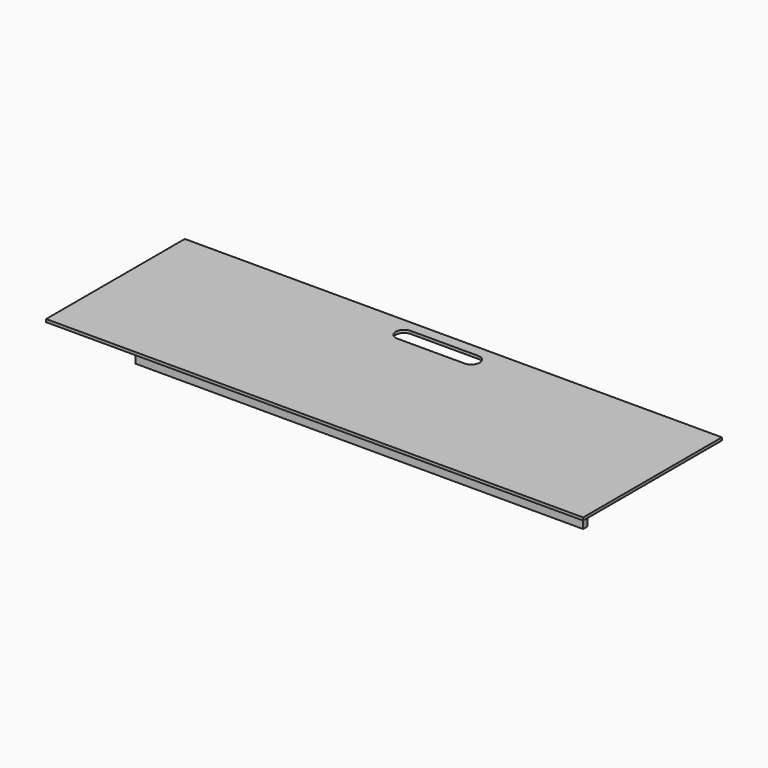
from build123d import *

# Parameters (mm, degrees)
F0_W      = 1219.2
F0_H      = 393.7
F1_DEPTH  = 6.35
F3_DEPTH  = 6.351
F4_W      = 152.4
F4_H      = 12.7
F5_DEPTH  = 101.6
F8_DEPTH  = 50.8
F10_DEPTH = 38.1
F11_DEPTH = 101.6
F9_W      = 50.8
F9_H      = 50.8
F12_DEPTH = 38.1


with BuildPart() as f1:
    # F0 (on Top) → F1 (new body)
    with BuildSketch(Plane.XY):
        with Locations((609.6, 196.85)):
            Rectangle(F0_W, F0_H)
    extrude(amount=F1_DEPTH)

    # F2 (on face) → F3 (cut, through all)
    with BuildSketch(Plane.XY.offset(6.35)):
        with BuildLine():
            ThreePointArc((533.4, 330.2), (546.8703841816, 335.7796158184), (552.45, 349.25))
            ThreePointArc((552.45, 349.25), (546.8703841816, 362.7203841816), (533.4, 368.3))
            ThreePointArc((533.4, 368.3), (514.35, 349.25), (533.4, 330.2))
        make_face()
        with BuildLine():
            ThreePointArc((533.4, 368.3), (546.8703841816, 362.7203841816), (552.45, 349.25))
            Line((552.45, 349.25), (666.75, 349.25))
            ThreePointArc((666.75, 349.25), (672.3296158184, 362.7203841816), (685.8, 368.3))
            Line((685.8, 368.3), (533.4, 368.3))
        make_face()
        with BuildLine():
            Line((666.75, 349.25), (552.45, 349.25))
            ThreePointArc((552.45, 349.25), (546.8703841816, 335.7796158184), (533.4, 330.2))
            Line((533.4, 330.2), (685.8, 330.2))
            ThreePointArc((685.8, 330.2), (672.3296158184, 335.7796158184), (666.75, 349.25))
        make_face()
        with BuildLine():
            ThreePointArc((685.8, 368.3), (672.3296158184, 362.7203841816), (666.75, 349.25))
            ThreePointArc((666.75, 349.25), (672.3296158184, 335.7796158184), (685.8, 330.2))
            ThreePointArc((685.8, 330.2), (699.2703841816, 335.7796158184), (704.85, 349.25))
            ThreePointArc((704.85, 349.25), (699.2703841816, 362.7203841816), (685.8, 368.3))
        make_face()
    extrude(amount=-F3_DEPTH, mode=Mode.SUBTRACT)

    # F4 (on face) → F5 (join)
    with BuildSketch(Plane(origin=(0, 0, 0), x_dir=(1, 0, 0), z_dir=(0, 0, -1))):
        with Locations((609.6, -247.65)):
            Rectangle(F4_W, F4_H)
    extrude(amount=F5_DEPTH)

    # F7 (on face) → F8 (join)
    with BuildSketch(Plane(origin=(0, 0, 0), x_dir=(1, 0, 0), z_dir=(0, 0, -1))):
        with BuildLine():
            Line((133.35, -393.7), (209.55, -393.7))
            ThreePointArc((209.55, -393.7), (171.45, -355.6), (133.35, -393.7))
        make_face()
        with BuildLine():
            Line((387.35, -393.7), (463.55, -393.7))
            ThreePointArc((463.55, -393.7), (425.45, -355.6), (387.35, -393.7))
        make_face()
        with BuildLine():
            ThreePointArc((831.85, -393.7), (793.75, -355.6), (755.65, -393.7))
            Line((755.65, -393.7), (831.85, -393.7))
        make_face()
        with BuildLine():
            ThreePointArc((1085.85, -393.7), (1047.75, -355.6), (1009.65, -393.7))
            Line((1009.65, -393.7), (1085.85, -393.7))
        make_face()
    extrude(amount=F8_DEPTH)

    # F9 (on face) → F10 (join)
    with BuildSketch(Plane(origin=(0, 0, 0), x_dir=(1, 0, 0), z_dir=(0, 0, -1))):
        Polygon((304.8, -190.5), (254, -190.5), (101.6, -190.5), (101.6, -203.2), (1117.6, -203.2), (1117.6, -190.5), (965.2, -190.5), (914.4, -190.5), (635, -190.5), (584.2, -190.5), align=None)
    extrude(amount=F10_DEPTH)

    # F9 (on face) → F11 (join)
    with BuildSketch(Plane(origin=(0, 0, 0), x_dir=(1, 0, 0), z_dir=(0, 0, -1))):
        Polygon((101.6, -139.7), (254, -139.7), (304.8, -139.7), (584.2, -139.7), (635, -139.7), (914.4, -139.7), (965.2, -139.7), (1117.6, -139.7), (1117.6, -127), (101.6, -127), align=None)
    extrude(amount=F11_DEPTH)

    # F9 (on face) → F12 (join, through all)
    with BuildSketch(Plane(origin=(0, 0, 0), x_dir=(1, 0, 0), z_dir=(0, 0, -1))):
        with Locations((279.4, -165.1)):
            Rectangle(F9_W, F9_H)
        with Locations((609.6, -165.1)):
            Rectangle(F9_W, F9_H)
        with Locations((939.8, -165.1)):
            Rectangle(F9_W, F9_H)
    extrude(amount=F12_DEPTH)


solid = f1.part
